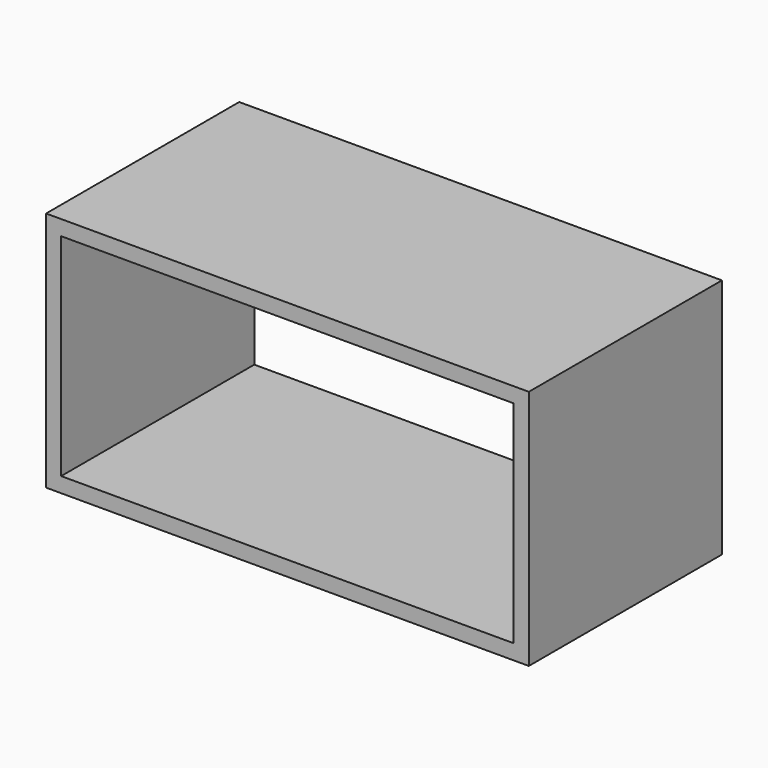
from build123d import *

# Parameters (mm, degrees)
F0_W     = 203.2
F0_H     = 101.6
F1_DEPTH = 101.6


with BuildPart() as f1:
    # F0 (on Front) → F1 (new body)
    with BuildSketch(Plane.XZ):
        Rectangle(F0_W, F0_H)
        Polygon((82.55, 44.45), (95.25, 44.45), (95.25, 19.05), (95.25, -44.45), (0, -44.45), (-95.25, -44.45), (-95.25, 44.45), (0, 44.45), align=None, mode=Mode.SUBTRACT)
    extrude(amount=F1_DEPTH)


solid = f1.part
